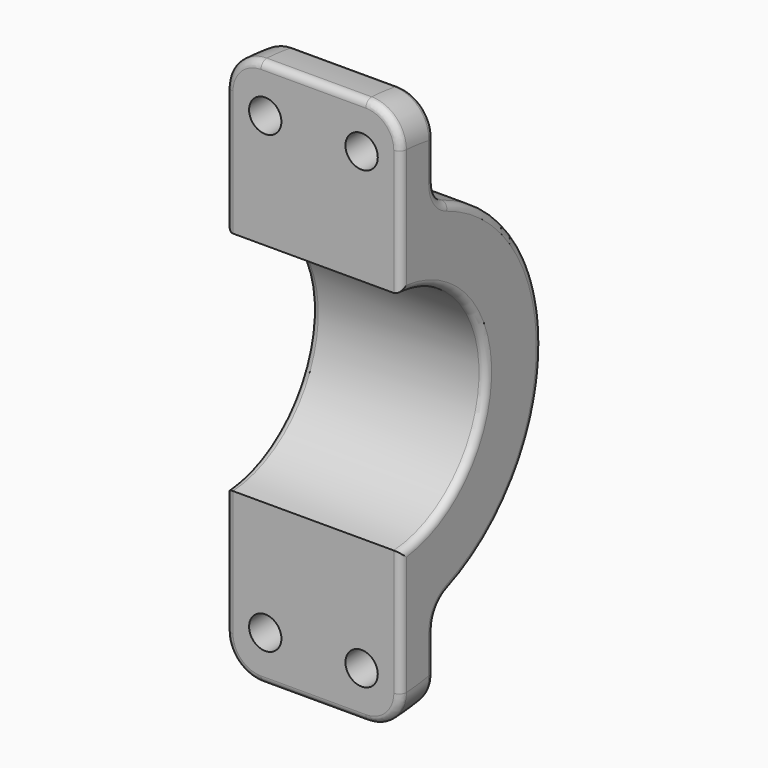
from build123d import *

# Parameters (mm, degrees)
F1_DEPTH = 12.5
F2_R     = 2.3120560343
F3_DEPTH = 26.251
F4_R     = 5
F5_R     = 1


with BuildPart() as f1:
    # F0 (on Right) → F1 (new body, symmetric)
    with BuildSketch(Plane.YZ):
        with BuildLine():
            ThreePointArc((1, 16.2192015833), (16.25, 0), (1, -16.2192015833))
            Line((1, -16.2192015833), (1, -39.2372590786))
            ThreePointArc((1, -39.2372590786), (4.0118599408, -39.0444295619), (7, -38.6207521936))
            Line((7, -38.6207521936), (7, -28.1777318701))
            ThreePointArc((7, -28.1777318701), (7.6968075003, -25.9224938479), (9.5443367466, -24.453387006))
            ThreePointArc((9.5443367466, -24.453387006), (26.25, 0), (9.5443367466, 24.453387006))
            ThreePointArc((9.5443367466, 24.453387006), (7.6968075003, 25.9224938479), (7, 28.1777318701))
            Line((7, 28.1777318701), (7, 38.6207521936))
            ThreePointArc((7, 38.6207521936), (4.0118599408, 39.0444295619), (1, 39.2372590786))
            Line((1, 39.2372590786), (1, 16.2192015833))
        make_face()
    extrude(amount=F1_DEPTH, both=True)

    # F2 (on Front) → F3 (cut, through all)
    with BuildSketch(Plane.XZ):
        with Locations((6.896616891, 32.556977123)):
            Circle(F2_R)
        with Locations((-6.896616891, 32.556977123)):
            Circle(F2_R)
        with Locations((-6.896616891, -32.556977123)):
            Circle(F2_R)
        with Locations((6.896616891, -32.556977123)):
            Circle(F2_R)
    extrude(amount=-F3_DEPTH, mode=Mode.SUBTRACT)

    # F4
    f4_edges = [f1.edges().sort_by_distance(p)[0] for p in [
        (12.5, 4.01186, 39.04443),
        (-12.5, 4.01186, 39.04443),
        (12.5, 4.01186, -39.04443),
        (-12.5, 4.01186, -39.04443),
    ]]
    fillet(f4_edges, radius=F4_R)

    # F5
    f5_edges = [f1.edges().sort_by_distance(p)[0] for p in [
        (-12.5, 1, -25.2273),
        (-12.5, 4.01565, -34.013777),
        (-12.5, 16.25, 0),
        (-12.5, 7, -30.852387),
        (-12.5, 1, 25.2273),
        (-12.5, 7.696808, -25.922494),
        (-12.5, 4.01565, 34.013777),
        (-12.5, 26.25, 0),
        (-12.5, 7, 30.852387),
        (-12.5, 7.696808, 25.922494),
        (12.5, 1, -25.2273),
        (12.5, 4.01565, -34.013777),
        (12.5, 16.25, 0),
        (12.5, 7, -30.852387),
        (12.5, 1, 25.2273),
        (12.5, 7.696808, -25.922494),
        (12.5, 4.01565, 34.013777),
        (12.5, 26.25, 0),
        (12.5, 7, 30.852387),
        (12.5, 7.696808, 25.922494),
    ]]
    fillet(f5_edges, radius=F5_R)


solid = f1.part
